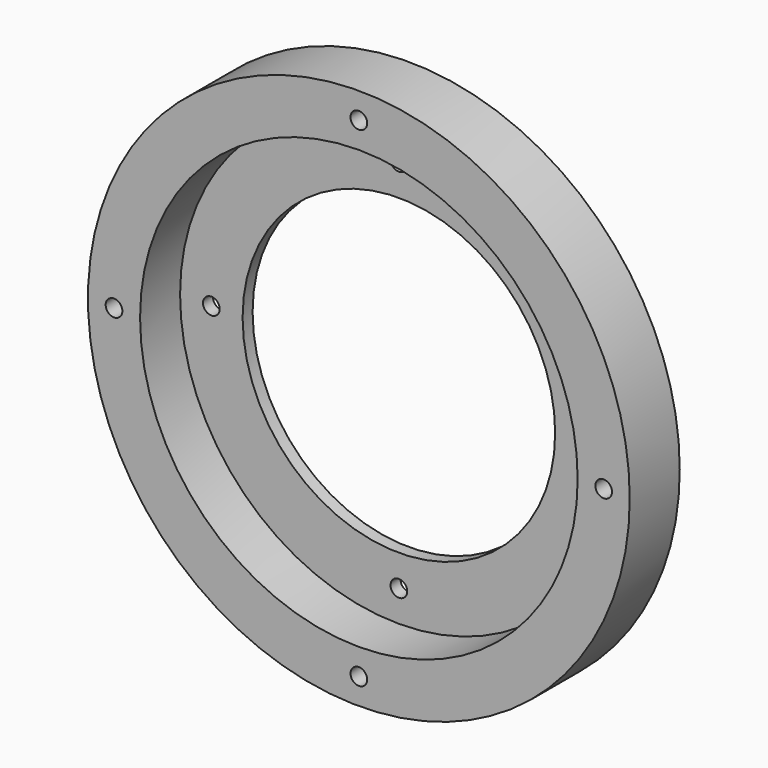
from build123d import *

# Parameters (mm, degrees)
F0_R     = 65
F1_DEPTH = 15
F2_R     = 52.5
F3_DEPTH = 12
F5_D     = 4
F5_DEPTH = 25
F7_D     = 4
F7_DEPTH = 25
F8_R     = 37.5
F9_DEPTH = 25


with BuildPart() as f1:
    # F0 (on Front) → F1 (new body)
    with BuildSketch(Plane.XZ):
        Circle(F0_R)
    extrude(amount=F1_DEPTH)

    # F2 (on face) → F3 (cut)
    with BuildSketch(Plane.XZ.offset(15)):
        Circle(F2_R)
    extrude(amount=-F3_DEPTH, mode=Mode.SUBTRACT)

    # F5
    with Locations(Plane.XZ.offset(15)):
        with Locations((-58.75, 0), (0, 58.75), (58.75, 0), (0, -58.75)):
            Hole(F5_D / 2, depth=F5_DEPTH)

    # F7
    with Locations(Plane.XZ.offset(3)):
        with Locations((0, 45), (-45, 0), (45, 0), (0, -45)):
            Hole(F7_D / 2, depth=F7_DEPTH)

    # F8 (on face) → F9 (cut)
    with BuildSketch(Plane(origin=(0, 0, 0), x_dir=(-1, 0, 0), z_dir=(0, 1, 0))):
        Circle(F8_R)
    extrude(amount=-F9_DEPTH, mode=Mode.SUBTRACT)


solid = f1.part
